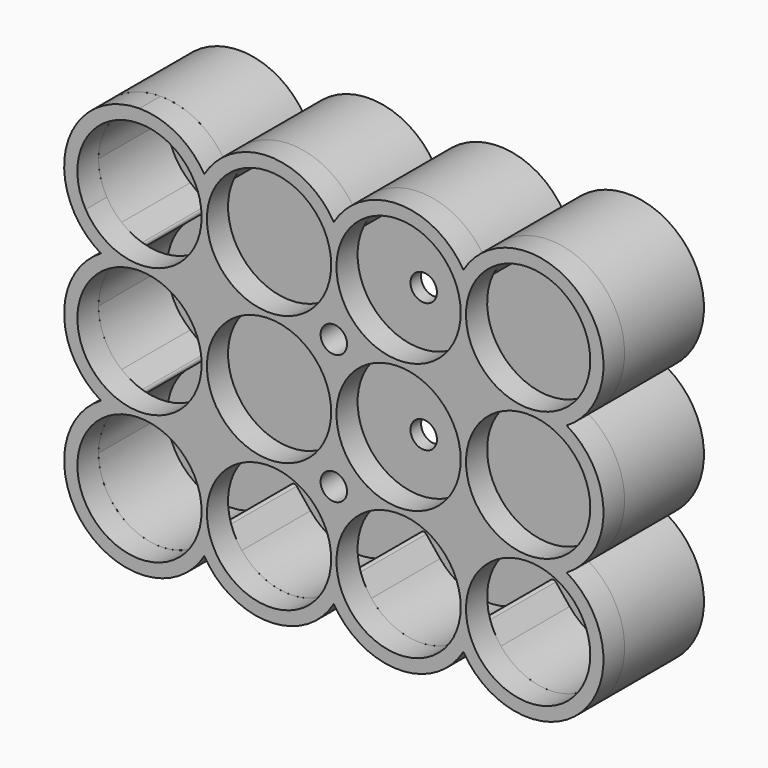
from build123d import *

# Parameters (mm, degrees)
F0_R     = 9.4
F1_DEPTH = 4
F3_DEPTH = 15
F5_DEPTH = 2
F6_R     = 2
F7_DEPTH = 19.001


with BuildPart() as f1:
    # F0 (on Front) → F1 (new body)
    with BuildSketch(Plane.XZ):
        with BuildLine():
            ThreePointArc((9.8, 5.824088), (5.637615, 9.908446), (0, 11.4))
            ThreePointArc((0, 11.4), (-9.870808, 5.703258), (-9.87645, -5.693483))
            ThreePointArc((-9.87645, -5.693483), (-8.114345, -8.007335), (-5.824088, -9.8))
            ThreePointArc((-5.824088, -9.8), (-11.4, -19.6), (-5.824088, -29.4))
            ThreePointArc((-5.824088, -29.4), (-8.061017, -47.261017), (9.8, -45.024088))
            ThreePointArc((9.8, -45.024088), (19.6, -50.6), (29.4, -45.024088))
            ThreePointArc((29.4, -45.024088), (39.2, -50.6), (49, -45.024088))
            ThreePointArc((49, -45.024088), (66.861017, -47.261017), (64.624088, -29.4))
            ThreePointArc((64.624088, -29.4), (70.2, -19.6), (64.624088, -9.8))
            ThreePointArc((64.624088, -9.8), (66.861017, 8.061017), (49, 5.824088))
            ThreePointArc((49, 5.824088), (39.2, 11.4), (29.4, 5.824088))
            ThreePointArc((29.4, 5.824088), (19.6, 11.4), (9.8, 5.824088))
        make_face()
        with Locations((0, -39.2)):
            Circle(F0_R, mode=Mode.SUBTRACT)
        with Locations((19.6, -39.2)):
            Circle(F0_R, mode=Mode.SUBTRACT)
        with Locations((39.2, -39.2)):
            Circle(F0_R, mode=Mode.SUBTRACT)
        with Locations((58.8, -39.2)):
            Circle(F0_R, mode=Mode.SUBTRACT)
        with Locations((0, -19.6)):
            Circle(F0_R, mode=Mode.SUBTRACT)
        with Locations((19.6, -19.6)):
            Circle(F0_R, mode=Mode.SUBTRACT)
        with BuildLine():
            ThreePointArc((0, 9.4), (6.646804, 6.646804), (9.4, 0))
            ThreePointArc((9.4, 0), (2.429903, -9.080505), (-8.143739, -4.694626))
            ThreePointArc((-8.143739, -4.694626), (-8.139087, 4.702686), (0, 9.4))
        make_face(mode=Mode.SUBTRACT)
        with Locations((19.6, 0)):
            Circle(F0_R, mode=Mode.SUBTRACT)
        with Locations((39.2, -19.6)):
            Circle(F0_R, mode=Mode.SUBTRACT)
        with Locations((58.8, -19.6)):
            Circle(F0_R, mode=Mode.SUBTRACT)
        with Locations((39.2, 0)):
            Circle(F0_R, mode=Mode.SUBTRACT)
        with BuildLine():
            ThreePointArc((66.943739, 4.694626), (67.880505, 2.429903), (68.2, 0))
            ThreePointArc((68.2, 0), (52.153196, -6.646804), (58.8, 9.4))
            ThreePointArc((58.8, 9.4), (63.502686, 8.139087), (66.943739, 4.694626))
        make_face(mode=Mode.SUBTRACT)
    extrude(amount=F1_DEPTH)


with BuildPart() as f3:
    # F2 (on face) → F3 (new body)
    with BuildSketch(Plane(origin=(0, 0, 0), x_dir=(-1, 0, 0), z_dir=(0, 1, 0))):
        with BuildLine():
            ThreePointArc((-9.8, -45.024088), (8.061017, -47.261017), (5.824088, -29.4))
            ThreePointArc((5.824088, -29.4), (11.4, -19.6), (5.824088, -9.8))
            ThreePointArc((5.824088, -9.8), (8.061017, 8.061017), (-9.8, 5.824088))
            ThreePointArc((-9.8, 5.824088), (-19.6, 11.4), (-29.4, 5.824088))
            ThreePointArc((-29.4, 5.824088), (-39.2, 11.4), (-49, 5.824088))
            ThreePointArc((-49, 5.824088), (-66.861017, 8.061017), (-64.624088, -9.8))
            ThreePointArc((-64.624088, -9.8), (-70.2, -19.6), (-64.624088, -29.4))
            ThreePointArc((-64.624088, -29.4), (-66.861017, -47.261017), (-49, -45.024088))
            ThreePointArc((-49, -45.024088), (-39.2, -50.6), (-29.4, -45.024088))
            ThreePointArc((-29.4, -45.024088), (-19.6, -50.6), (-9.8, -45.024088))
        make_face()
        with BuildLine():
            ThreePointArc((9.4, -39.2), (3.130281, -48.063483), (-7.315179, -45.103233))
            Line((-7.315179, -45.103233), (-9.410895, -42.50626))
            ThreePointArc((-9.410895, -42.50626), (-9.8, -42.320262), (-10.189105, -42.50626))
            Line((-10.189105, -42.50626), (-12.284821, -45.103233))
            ThreePointArc((-12.284821, -45.103233), (-19.6, -48.6), (-26.915179, -45.103233))
            Line((-26.915179, -45.103233), (-29.010895, -42.50626))
            ThreePointArc((-29.010895, -42.50626), (-29.4, -42.320262), (-29.789105, -42.50626))
            Line((-29.789105, -42.50626), (-31.884821, -45.103233))
            ThreePointArc((-31.884821, -45.103233), (-39.2, -48.6), (-46.515179, -45.103233))
            Line((-46.515179, -45.103233), (-48.610895, -42.50626))
            ThreePointArc((-48.610895, -42.50626), (-49, -42.320262), (-49.389105, -42.50626))
            Line((-49.389105, -42.50626), (-51.484821, -45.103233))
            ThreePointArc((-51.484821, -45.103233), (-65.446804, -45.846804), (-64.703233, -31.884821))
            Line((-64.703233, -31.884821), (-62.10626, -29.789105))
            ThreePointArc((-62.10626, -29.789105), (-61.920262, -29.4), (-62.10626, -29.010895))
            Line((-62.10626, -29.010895), (-64.703233, -26.915179))
            ThreePointArc((-64.703233, -26.915179), (-68.2, -19.6), (-64.703233, -12.284821))
            Line((-64.703233, -12.284821), (-62.10626, -10.189105))
            ThreePointArc((-62.10626, -10.189105), (-61.920262, -9.8), (-62.10626, -9.410895))
            Line((-62.10626, -9.410895), (-64.703233, -7.315179))
            ThreePointArc((-64.703233, -7.315179), (-65.446804, 6.646804), (-51.484821, 5.903233))
            Line((-51.484821, 5.903233), (-49.389105, 3.30626))
            ThreePointArc((-49.389105, 3.30626), (-49, 3.120262), (-48.610895, 3.30626))
            Line((-48.610895, 3.30626), (-46.515179, 5.903233))
            ThreePointArc((-46.515179, 5.903233), (-39.2, 9.4), (-31.884821, 5.903233))
            Line((-31.884821, 5.903233), (-29.789105, 3.30626))
            ThreePointArc((-29.789105, 3.30626), (-29.4, 3.120262), (-29.010895, 3.30626))
            Line((-29.010895, 3.30626), (-26.915179, 5.903233))
            ThreePointArc((-26.915179, 5.903233), (-19.6, 9.4), (-12.284821, 5.903233))
            Line((-12.284821, 5.903233), (-10.189105, 3.30626))
            ThreePointArc((-10.189105, 3.30626), (-9.8, 3.120262), (-9.410895, 3.30626))
            Line((-9.410895, 3.30626), (-7.315179, 5.903233))
            ThreePointArc((-7.315179, 5.903233), (3.130281, 8.863483), (9.4, 0))
            ThreePointArc((9.4, 0), (8.480872, -4.053986), (5.903233, -7.315179))
            Line((5.903233, -7.315179), (3.30626, -9.410895))
            ThreePointArc((3.30626, -9.410895), (3.120262, -9.8), (3.30626, -10.189105))
            Line((3.30626, -10.189105), (5.903233, -12.284821))
            ThreePointArc((5.903233, -12.284821), (8.480872, -15.546014), (9.4, -19.6))
            ThreePointArc((9.4, -19.6), (8.480872, -23.653986), (5.903233, -26.915179))
            Line((5.903233, -26.915179), (3.30626, -29.010895))
            ThreePointArc((3.30626, -29.010895), (3.120262, -29.4), (3.30626, -29.789105))
            Line((3.30626, -29.789105), (5.903233, -31.884821))
            ThreePointArc((5.903233, -31.884821), (8.480872, -35.146014), (9.4, -39.2))
        make_face(mode=Mode.SUBTRACT)
    extrude(amount=F3_DEPTH)

    # F4 (on face) → F5 (join)
    with BuildSketch(Plane(origin=(0, 15, 0), x_dir=(-1, 0, 0), z_dir=(0, 1, 0))):
        with BuildLine():
            ThreePointArc((-51.484821, 5.903233), (-65.446804, 6.646804), (-64.703233, -7.315179))
            Line((-64.703233, -7.315179), (-62.10626, -9.410895))
            ThreePointArc((-62.10626, -9.410895), (-61.920262, -9.8), (-62.10626, -10.189105))
            Line((-62.10626, -10.189105), (-64.703233, -12.284821))
            ThreePointArc((-64.703233, -12.284821), (-68.2, -19.6), (-64.703233, -26.915179))
            Line((-64.703233, -26.915179), (-62.10626, -29.010895))
            ThreePointArc((-62.10626, -29.010895), (-61.920262, -29.4), (-62.10626, -29.789105))
            Line((-62.10626, -29.789105), (-64.703233, -31.884821))
            ThreePointArc((-64.703233, -31.884821), (-65.446804, -45.846804), (-51.484821, -45.103233))
            Line((-51.484821, -45.103233), (-49.389105, -42.50626))
            ThreePointArc((-49.389105, -42.50626), (-49, -42.320262), (-48.610895, -42.50626))
            Line((-48.610895, -42.50626), (-46.515179, -45.103233))
            ThreePointArc((-46.515179, -45.103233), (-39.2, -48.6), (-31.884821, -45.103233))
            Line((-31.884821, -45.103233), (-29.789105, -42.50626))
            ThreePointArc((-29.789105, -42.50626), (-29.4, -42.320262), (-29.010895, -42.50626))
            Line((-29.010895, -42.50626), (-26.915179, -45.103233))
            ThreePointArc((-26.915179, -45.103233), (-19.6, -48.6), (-12.284821, -45.103233))
            Line((-12.284821, -45.103233), (-10.189105, -42.50626))
            ThreePointArc((-10.189105, -42.50626), (-9.8, -42.320262), (-9.410895, -42.50626))
            Line((-9.410895, -42.50626), (-7.315179, -45.103233))
            ThreePointArc((-7.315179, -45.103233), (6.646804, -45.846804), (5.903233, -31.884821))
            Line((5.903233, -31.884821), (3.30626, -29.789105))
            ThreePointArc((3.30626, -29.789105), (3.120262, -29.4), (3.30626, -29.010895))
            Line((3.30626, -29.010895), (5.903233, -26.915179))
            ThreePointArc((5.903233, -26.915179), (9.4, -19.6), (5.903233, -12.284821))
            Line((5.903233, -12.284821), (3.30626, -10.189105))
            ThreePointArc((3.30626, -10.189105), (3.120262, -9.8), (3.30626, -9.410895))
            Line((3.30626, -9.410895), (5.903233, -7.315179))
            ThreePointArc((5.903233, -7.315179), (6.646804, 6.646804), (-7.315179, 5.903233))
            Line((-7.315179, 5.903233), (-9.410895, 3.30626))
            ThreePointArc((-9.410895, 3.30626), (-9.8, 3.120262), (-10.189105, 3.30626))
            Line((-10.189105, 3.30626), (-12.284821, 5.903233))
            ThreePointArc((-12.284821, 5.903233), (-19.6, 9.4), (-26.915179, 5.903233))
            Line((-26.915179, 5.903233), (-29.010895, 3.30626))
            ThreePointArc((-29.010895, 3.30626), (-29.4, 3.120262), (-29.789105, 3.30626))
            Line((-29.789105, 3.30626), (-31.884821, 5.903233))
            ThreePointArc((-31.884821, 5.903233), (-39.2, 9.4), (-46.515179, 5.903233))
            Line((-46.515179, 5.903233), (-48.610895, 3.30626))
            ThreePointArc((-48.610895, 3.30626), (-49, 3.120262), (-49.389105, 3.30626))
            Line((-49.389105, 3.30626), (-51.484821, 5.903233))
        make_face()
    extrude(amount=-F5_DEPTH)


with BuildPart() as f7_tool:
    # F6 (on face) → F7 (new body, through all)
    with BuildSketch(Plane.XZ.offset(4)):
        with Locations((29.4, -9.8)):
            Circle(F6_R)
        with Locations((29.4, -29.4)):
            Circle(F6_R)
    extrude(amount=-F7_DEPTH)


with BuildPart() as f1_1:
    add(f1.part)

    # F7: cut by f7_tool
    add(f7_tool.part, mode=Mode.SUBTRACT)


with BuildPart() as f3_1:
    add(f3.part)

    # F7: cut by f7_tool
    add(f7_tool.part, mode=Mode.SUBTRACT)


solid = Compound([f1_1.part, f3_1.part])
